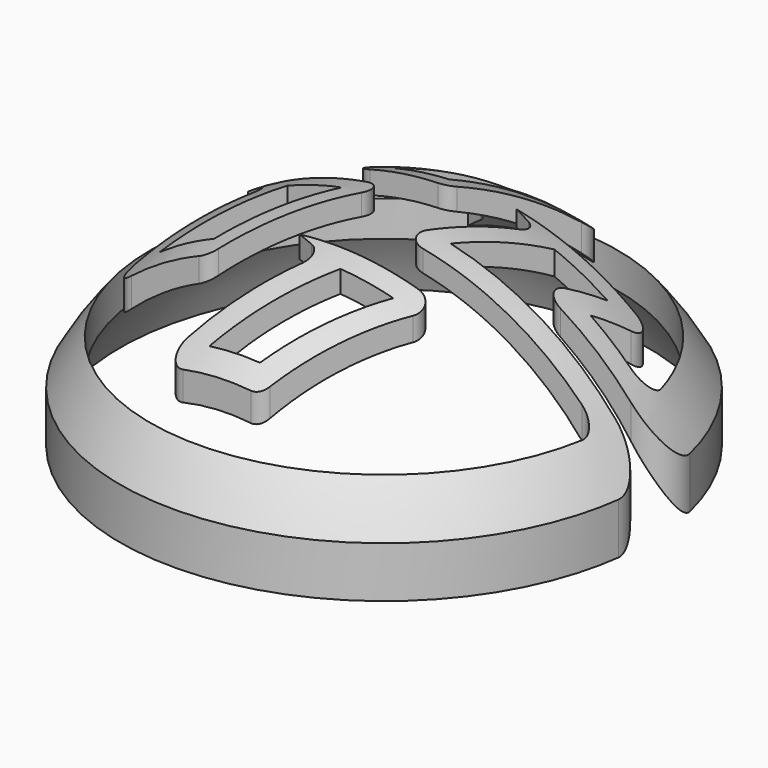
from build123d import *

# Parameters (mm, degrees)
F1_DEPTH = 25.4


with BuildPart() as f1:
    # F0 (on Top) → F1 (new body)
    with BuildSketch(Plane.XY):
        with BuildLine():
            Line((3.6661742094, 16.764), (-6.326121265, 16.764))
            Line((-6.326121265, 16.764), (-4.8104157362, 16.1516152157))
            ThreePointArc((-4.8104157362, 16.1516152157), (-4.0853575189, 15.3875632766), (-4.1863138471, 14.3390917204))
            Line((-4.1863138471, 14.3390917204), (-7.5523188713, 8.509))
            ThreePointArc((-7.5523188713, 8.509), (-7.5523188713, 7.239), (-6.4524666085, 6.604))
            Line((-6.4524666085, 6.604), (-0.7332348419, 6.604))
            ThreePointArc((-0.7332348419, 6.604), (-0.0982348419, 6.7741477372), (0.3666174209, 7.239))
            Line((0.3666174209, 7.239), (4.7660264722, 14.859))
            ThreePointArc((4.7660264722, 14.859), (4.7660264722, 16.129), (3.6661742094, 16.764))
        make_face()
        Polygon((2.8144386597, 15.1530988514), (-1.0796590941, 8.2238959149), (-5.6800390594, 8.204806596), (-1.6714092344, 15.1530988514), align=None, mode=Mode.SUBTRACT)
    extrude(amount=F1_DEPTH)


with BuildPart() as f1b:
    # F0 (on Top) → F1, piece 2 (new body)
    with BuildSketch(Plane.XY):
        with BuildLine():
            ThreePointArc((19.13945879, 2.0622105803), (21.1344446801, 3.0300683163), (21.6090663758, 5.1960442036))
            ThreePointArc((21.6090663758, 5.1960442036), (-22.1934477205, -1.183851037), (22.0392078168, -2.8677419355))
            ThreePointArc((22.0392078168, -2.8677419355), (21.428852134, -0.8638234753), (19.5204412092, 0))
            Line((19.5204412092, 0), (5.6091765873, 0))
            Line((5.6091765873, 0), (9.090019493, 6.5974574536))
            Line((9.090019493, 6.5974574536), (13.5600129142, 6.5974574536))
            Line((13.5600129142, 6.5974574536), (12.1189804763, 3.9370902436))
            ThreePointArc((12.1189804763, 3.9370902436), (12.1445586123, 2.6823248875), (13.2356812388, 2.0622105803))
            Line((13.2356812388, 2.0622105803), (19.13945879, 2.0622105803))
        make_face()
        with BuildLine():
            ThreePointArc((19.3986285096, -3.345509968), (-19.6520918324, -1.137766061), (18.8829339378, 5.5618370077))
            ThreePointArc((18.8829339378, 5.5618370077), (18.6816884457, 4.4423550838), (17.6646801354, 3.9330088136))
            Line((17.6646801354, 3.9330088136), (14.2449521713, 3.9330088136))
            Line((14.2449521713, 3.9330088136), (15.6522114908, 6.4346375812))
            ThreePointArc((15.6522114908, 6.4346375812), (15.641613284, 7.6984394477), (14.5453281682, 8.3273006603))
            Line((14.5453281682, 8.3273006603), (4.4855610467, 8.3273006603))
            Line((4.4855610467, 8.3273006603), (6.0724675075, 7.5976885461))
            ThreePointArc((6.0724675075, 7.5976885461), (6.7424553279, 6.8581456701), (6.6712467641, 5.8627881035))
            Line((6.6712467641, 5.8627881035), (3.6504325293, -0.0086537506))
            ThreePointArc((3.6504325293, -0.0086537506), (3.6955762526, -1.2511116866), (4.7797329336, -1.8596706152))
            Line((4.7797329336, -1.8596706152), (18.1471040896, -1.8596706152))
            ThreePointArc((18.1471040896, -1.8596706152), (19.1184474836, -2.3115068107), (19.3986285096, -3.345509968))
        make_face(mode=Mode.SUBTRACT)
    extrude(amount=F1_DEPTH)


with BuildPart() as f1c:
    # F0 (on Top) → F1, piece 3 (new body)
    with BuildSketch(Plane.XY):
        with BuildLine():
            Line((6.9442954744, -5.08), (-3.048, -5.08))
            Line((-3.048, -5.08), (-1.5322944712, -5.6923847843))
            ThreePointArc((-1.5322944712, -5.6923847843), (-0.8072362538, -6.4564367234), (-0.908192582, -7.5049082796))
            Line((-0.908192582, -7.5049082796), (-4.9341089639, -14.478))
            ThreePointArc((-4.9341089639, -14.478), (-4.9341089639, -15.748), (-3.8342567011, -16.383))
            Line((-3.8342567011, -16.383), (1.8849750655, -16.383))
            ThreePointArc((1.8849750655, -16.383), (2.5199750655, -16.2128522628), (2.9848273283, -15.748))
            Line((2.9848273283, -15.748), (8.0441477372, -6.985))
            ThreePointArc((8.0441477372, -6.985), (8.0441477372, -5.715), (6.9442954744, -5.08))
        make_face()
        Polygon((-2.8596681684, -14.8083201441), (1.7645594198, -6.7989230156), (6.2122303061, -6.7798341624), (1.4018738875, -14.8083201441), align=None, mode=Mode.SUBTRACT)
    extrude(amount=F1_DEPTH)


with BuildPart() as f1d:
    # F0 (on Top) → F1, piece 4 (new body)
    with BuildSketch(Plane.XY):
        with BuildLine():
            Line((-4.1061151145, 3.302), (-14.0984105889, 3.302))
            Line((-14.0984105889, 3.302), (-12.5827050601, 2.6896152157))
            ThreePointArc((-12.5827050601, 2.6896152157), (-11.8576468427, 1.9255632766), (-11.9586031709, 0.8770917204))
            Line((-11.9586031709, 0.8770917204), (-15.9845195528, -6.096))
            ThreePointArc((-15.9845195528, -6.096), (-15.9845195528, -7.366), (-14.88466729, -8.001))
            Line((-14.88466729, -8.001), (-9.1654355234, -8.001))
            ThreePointArc((-9.1654355234, -8.001), (-8.5304355234, -7.8308522628), (-8.0655832606, -7.366))
            Line((-8.0655832606, -7.366), (-3.0062628517, 1.397))
            ThreePointArc((-3.0062628517, 1.397), (-3.0062628517, 2.667), (-4.1061151145, 3.302))
        make_face()
        Polygon((-9.4023384154, 1.6001109034), (-4.8401355743, 1.6001109034), (-9.3450723216, -6.2076682179), (-13.9101617928, -6.2076682179), align=None, mode=Mode.SUBTRACT)
    extrude(amount=F1_DEPTH)


with BuildPart() as f3_tool:
    # F2 (on Right) → F3 (revolve)
    with BuildSketch(Plane.YZ):
        with BuildLine():
            Line((0, 23.622), (0, 0))
            Line((0, 0), (22.225, 0))
            Line((22.225, 0), (23.622, 0))
            ThreePointArc((23.622, 0), (16.7032763852, 16.7032763852), (0, 23.622))
        make_face()
    revolve(axis=Axis((0, 0, 11.811), (0, 0, 1)))


with BuildPart() as f1_1:
    add(f1.part)

    # F3: cut by f3_tool
    add(f3_tool.part, mode=Mode.SUBTRACT)


with BuildPart() as f1b_1:
    add(f1b.part)

    # F3: cut by f3_tool
    add(f3_tool.part, mode=Mode.SUBTRACT)


with BuildPart() as f1c_1:
    add(f1c.part)

    # F3: cut by f3_tool
    add(f3_tool.part, mode=Mode.SUBTRACT)


with BuildPart() as f1d_1:
    add(f1d.part)

    # F3: cut by f3_tool
    add(f3_tool.part, mode=Mode.SUBTRACT)


with BuildPart() as f4_tool:
    # F2 (on Right) → F4 (revolve)
    with BuildSketch(Plane.YZ):
        with BuildLine():
            ThreePointArc((0, 25.4), (17.9605122421, 17.9605122421), (25.4, 0))
            Line((25.4, 0), (26.67, 0))
            Line((26.67, 0), (26.67, 26.67))
            Line((26.67, 26.67), (0, 26.67))
            Line((0, 26.67), (0, 25.4))
        make_face()
    revolve(axis=Axis((0, 0, 11.811), (0, 0, 1)))


with BuildPart() as f1_2:
    add(f1_1.part)

    # F4: cut by f4_tool
    add(f4_tool.part, mode=Mode.SUBTRACT)


with BuildPart() as f1b_2:
    add(f1b_1.part)

    # F4: cut by f4_tool
    add(f4_tool.part, mode=Mode.SUBTRACT)


with BuildPart() as f1c_2:
    add(f1c_1.part)

    # F4: cut by f4_tool
    add(f4_tool.part, mode=Mode.SUBTRACT)


with BuildPart() as f1d_2:
    add(f1d_1.part)

    # F4: cut by f4_tool
    add(f4_tool.part, mode=Mode.SUBTRACT)


solid = Compound([f1_2.part, f1b_2.part, f1c_2.part, f1d_2.part])
